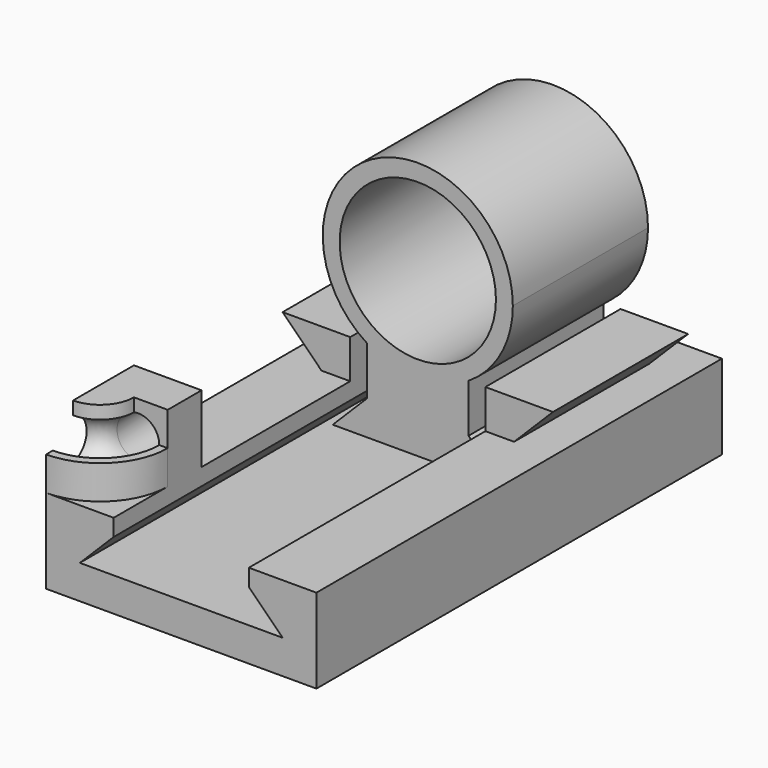
from build123d import *

# Parameters (mm, degrees)
F1_DEPTH = 15
F2_START = -2.5
F0_R     = 4.625
F2_DEPTH = 10
F3_START = -2.5
F3_DEPTH = 10
F5_ANGLE = 90
F6_DEPTH = 2.5
F8_DEPTH = 2.5


with BuildPart() as f1:
    # F0 (on Front) → F1 (new body, symmetric)
    with BuildSketch(Plane.XZ):
        Polygon((6, 0), (0, 0), (-6, 0), (-4, 2), (-4, 3), (-5.6989020026, 3), (-8, 3), (-8, -2), (0, -2), (8, -2), (8, 3), (5.6989020026, 3), (4, 3), (4, 2), align=None)
    extrude(amount=F1_DEPTH, both=True)

    # F0 (on Front) → F3 (join)
    with BuildSketch(Plane.XZ.offset(F3_START)):
        Polygon((-5.6989020026, 3), (-4, 3), (-4, 5.3010979974), (-8, 5.3010979974), align=None)
        Polygon((4, 5.3010979974), (4, 3), (5.6989020026, 3), (8, 5.3010979974), align=None)
    extrude(amount=-F3_DEPTH)

    # F4 (on face) → F5 (revolve)
    with BuildSketch(Plane(origin=(-8, 0, 0), x_dir=(0, -1, 0), z_dir=(-1, 0, 0))):
        with BuildLine():
            Line((11, 3), (15, 3))
            Line((15, 3), (15, 5))
            Line((15, 5), (14.5, 5))
            ThreePointArc((14.5, 5), (12.459430585, 4.0317541634), (13, 6.2247448714))
            Line((13, 6.2247448714), (13, 7))
            Line((13, 7), (11, 7))
            Line((11, 7), (11, 3))
        make_face()
    revolve(axis=Axis((-8, -11, 5), (0, 0, 1)), revolution_arc=F5_ANGLE)

    # F6 (add): a face of the model
    f6_faces = [f1.faces().sort_by_distance(p)[0] for p in [
        (-6, -11, 3.0565685425),
    ]]
    extrude(f6_faces, amount=F6_DEPTH)

    # F7 (on face) → F8 (join)
    with BuildSketch(Plane(origin=(0, -8.5, 0), x_dir=(-1, 0, 0), z_dir=(0, 1, 0))):
        with BuildLine():
            Line((4, 7), (4, 5))
            Line((4, 5), (4.5, 5))
            ThreePointArc((4.5, 5), (4.959430585, 5.9682458366), (6, 6.2247448714))
            Line((6, 6.2247448714), (6, 7))
            Line((6, 7), (4, 7))
        make_face()
    extrude(amount=-F8_DEPTH)


with BuildPart() as f2:
    # F0 (on Front) → F2 (new body)
    with BuildSketch(Plane.XZ.offset(F2_START)):
        Polygon((-5.0343145751, 0.4), (0, 0.4), (5.0343145751, 0.4), (3, 2.4343145751), (3, 4.4343145751), (0, 4.4343145751), (-3, 4.4343145751), (-3, 2.4343145751), align=None)
        Polygon((-5.0343145751, 0.4), (0, 0.4), (5.0343145751, 0.4), (3, 2.4343145751), (3, 4.4343145751), (0, 4.4343145751), (-3, 4.4343145751), (-3, 2.4343145751), align=None)
        Polygon((-5.0343145751, 0.4), (0, 0.4), (5.0343145751, 0.4), (3, 2.4343145751), (3, 4.4343145751), (0, 4.4343145751), (-3, 4.4343145751), (-3, 2.4343145751), align=None)
        with BuildLine():
            Line((-3, 5.3010979974), (-3, 4.4343145751))
            Line((-3, 4.4343145751), (0, 4.4343145751))
            ThreePointArc((0, 4.4343145751), (-1.5613546603, 4.6553533775), (-3, 5.3010979974))
        make_face()
        with BuildLine():
            ThreePointArc((-3, 5.3010979974), (-1.5613546603, 4.6553533775), (0, 4.4343145751))
            ThreePointArc((0, 4.4343145751), (1.5613546603, 4.6553533775), (3, 5.3010979974))
            ThreePointArc((3, 5.3010979974), (4.9252220762, 7.3421814351), (5.625, 10.0593145751))
            ThreePointArc((5.625, 10.0593145751), (-2.7171331399, 14.9845366513), (-3, 5.3010979974))
        make_face()
        with Locations((0, 10.0593145751)):
            Circle(F0_R, mode=Mode.SUBTRACT)
        with BuildLine():
            Line((0, 4.4343145751), (3, 4.4343145751))
            Line((3, 4.4343145751), (3, 5.3010979974))
            ThreePointArc((3, 5.3010979974), (1.5613546603, 4.6553533775), (0, 4.4343145751))
        make_face()
    extrude(amount=-F2_DEPTH)


solid = Compound([f1.part, f2.part])
